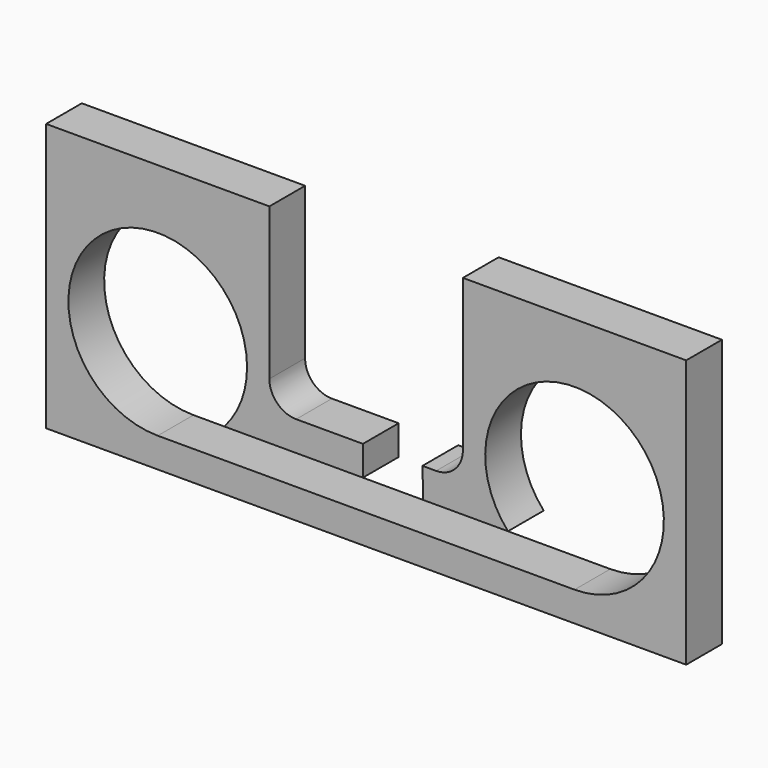
from build123d import *

# Parameters (mm, degrees)
F0_W     = 273.05
F0_H     = 114.3
F1_DEPTH = 19.05
F2_R     = 38.1
F3_DEPTH = 25.4
F5_DEPTH = 25.4
F7_DEPTH = 25.4


with BuildPart() as f1:
    # F0 (on Front) → F1 (new body)
    with BuildSketch(Plane.XZ):
        with Locations((136.525, 57.15)):
            Rectangle(F0_W, F0_H)
    extrude(amount=F1_DEPTH)

    # F2 (on face) → F3 (cut)
    with BuildSketch(Plane.XZ.offset(19.05)):
        with Locations((47.625, 50.8)):
            Circle(F2_R)
        with Locations((225.425, 50.8)):
            Circle(F2_R)
    extrude(amount=-F3_DEPTH, mode=Mode.SUBTRACT)

    # F4 (on face) → F5 (cut)
    with BuildSketch(Plane.XZ.offset(19.05)):
        with BuildLine():
            Line((177.8, 114.3), (95.25, 114.3))
            Line((95.25, 114.3), (95.25, 49.53))
            ThreePointArc((95.25, 49.53), (98.597769, 41.447769), (106.68, 38.1))
            Line((106.68, 38.1), (166.37, 38.1))
            ThreePointArc((166.37, 38.1), (174.452231, 41.447769), (177.8, 49.53))
            Line((177.8, 49.53), (177.8, 114.3))
        make_face()
    extrude(amount=-F5_DEPTH, mode=Mode.SUBTRACT)

    # F6 (on face) → F7 (cut)
    with BuildSketch(Plane.XZ.offset(19.05)):
        Polygon((160.862069, 25.4), (160.547867, 38.1), (135.147867, 38.1), (135.147867, 25.4), (76.023063, 25.4), (47.625, 12.7), (225.425, 12.7), (197.026937, 25.4), align=None)
    extrude(amount=-F7_DEPTH, mode=Mode.SUBTRACT)


solid = f1.part
